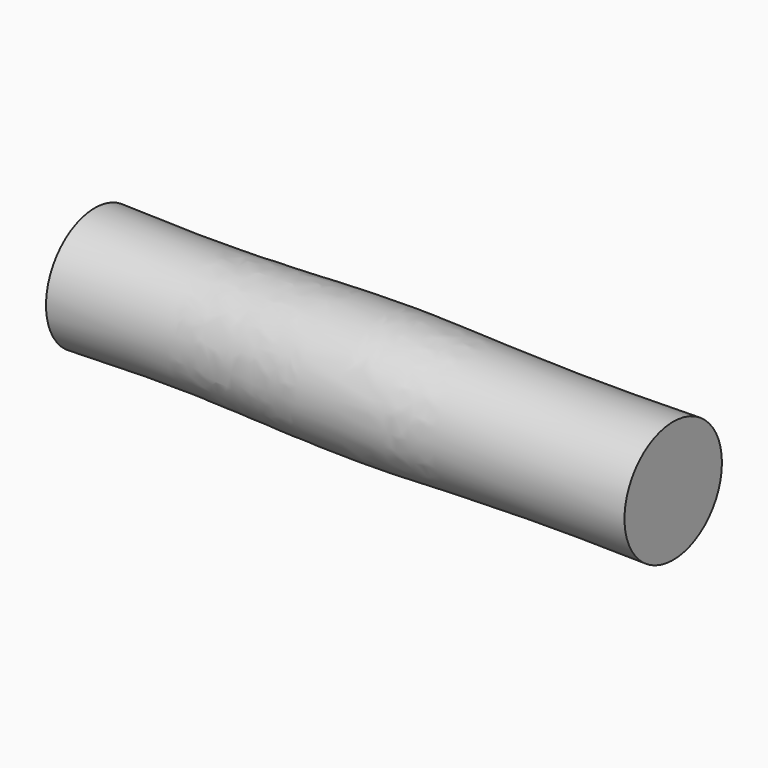
from build123d import *

# Parameters (mm, degrees)
F2_SCALE = 0.5


with BuildPart() as f1:
    # F0 (on Top) → F1 (revolve)
    with BuildSketch(Plane.XY):
        with BuildLine():
            Line((-19, 4), (-19, 0))
            Line((-19, 0), (19, 0))
            Line((19, 0), (19, 4))
            add(Edge.make_bspline(
                [(-19, 4), (-16.8425769943, 3.9405265748), (-11.0434454615, 3.7486995039), (1.7877387598, 4.5290379456), (8.2706393516, 3.7907353385), (19, 4)],
                knots=[0, 0, 0, 0, 0.2656543652, 0.5847989558, 1, 1, 1, 1], degree=3))
        make_face()
    revolve(axis=Axis((0, 0, 0), (1, 0, 0)))


with BuildPart() as f1_1:
    # F2: moved
    add(f1.part.scale(F2_SCALE))


solid = f1_1.part
